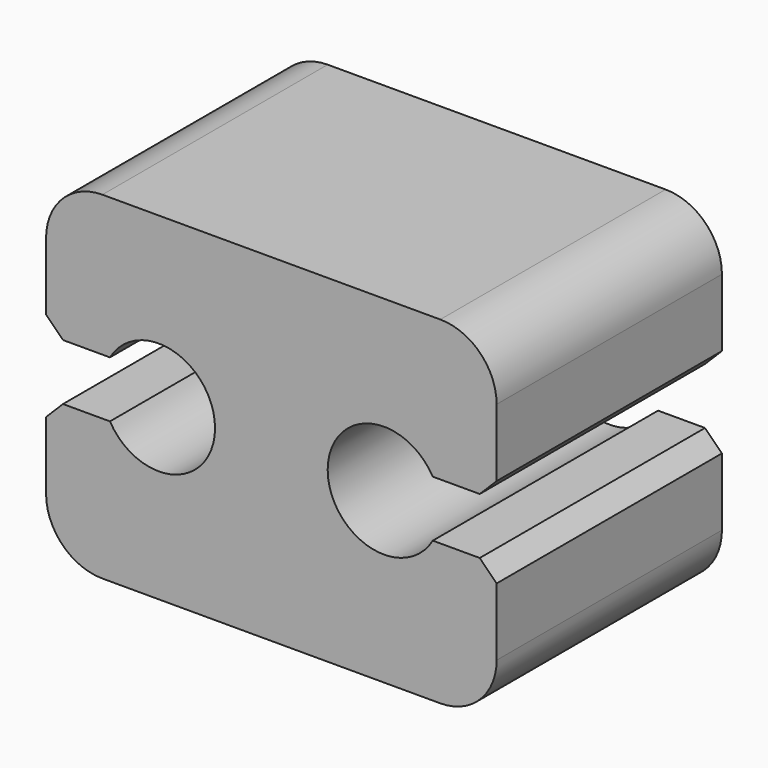
from build123d import *

# Parameters (mm, degrees)
F1_DEPTH = 50


with BuildPart() as f1:
    # F0 (on Front) → F1 (new body)
    with BuildSketch(Plane.XZ):
        with BuildLine():
            Line((-30, 0), (0, 0))
            Line((0, 0), (30, 0))
            ThreePointArc((30, 0), (37.071068, 2.928932), (40, 10))
            Line((40, 10), (40, 22))
            Line((40, 22), (37, 25))
            Line((37, 25), (28.660254, 25))
            ThreePointArc((28.660254, 25), (10, 30), (28.660254, 35))
            Line((28.660254, 35), (37, 35))
            Line((37, 35), (40, 38))
            Line((40, 38), (40, 50))
            ThreePointArc((40, 50), (37.071068, 57.071068), (30, 60))
            Line((30, 60), (0, 60))
            Line((0, 60), (-30, 60))
            ThreePointArc((-30, 60), (-37.071068, 57.071068), (-40, 50))
            Line((-40, 50), (-40, 38))
            Line((-40, 38), (-37, 35))
            Line((-37, 35), (-28.660254, 35))
            ThreePointArc((-28.660254, 35), (-10, 30), (-28.660254, 25))
            Line((-28.660254, 25), (-37, 25))
            Line((-37, 25), (-40, 22))
            Line((-40, 22), (-40, 10))
            ThreePointArc((-40, 10), (-37.071068, 2.928932), (-30, 0))
        make_face()
    extrude(amount=F1_DEPTH)


solid = f1.part
